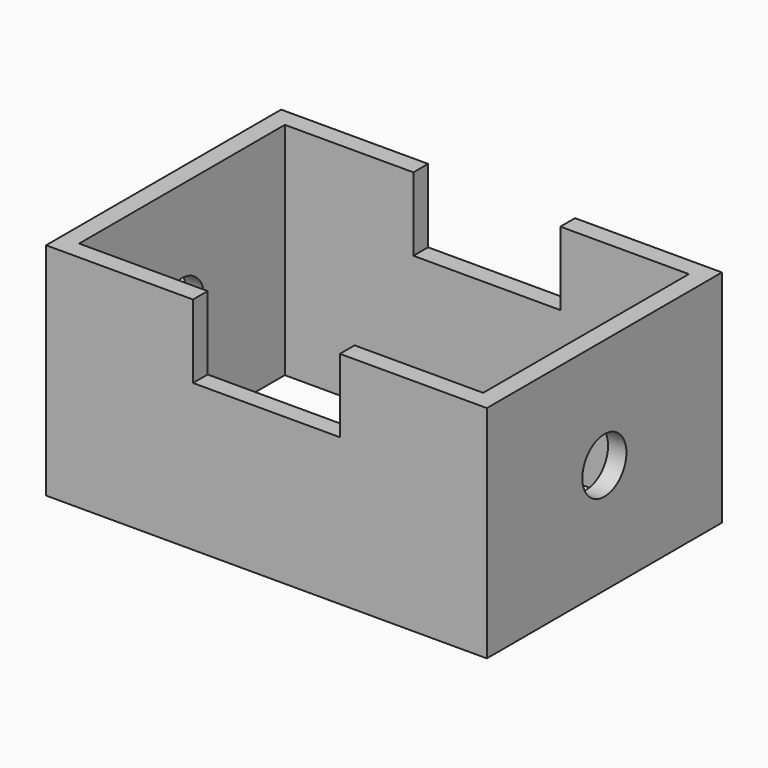
from build123d import *

# Parameters (mm, degrees)
F0_W     = 152.4
F0_H     = 101.6
F0_W_2   = 139.7
F0_H_2   = 88.9
F1_DEPTH = 76.2
F2_W     = 50.8
F2_H     = 25.4
F3_DEPTH = 101.601
F4_R     = 9.525
F5_DEPTH = 152.401


with BuildPart() as f1:
    # F0 (on Top) → F1 (new body)
    with BuildSketch(Plane.XY):
        Rectangle(F0_W, F0_H)
        Rectangle(F0_W_2, F0_H_2, mode=Mode.SUBTRACT)
    extrude(amount=F1_DEPTH)

    # F2 (on face) → F3 (cut, through all)
    with BuildSketch(Plane.XZ.offset(50.8)):
        with Locations((0, 63.5)):
            Rectangle(F2_W, F2_H)
        with Locations((0, 63.5)):
            Rectangle(F2_W, F2_H)
    extrude(amount=-F3_DEPTH, mode=Mode.SUBTRACT)

    # F4 (on face) → F5 (cut, through all)
    with BuildSketch(Plane.YZ.offset(76.2)):
        with Locations((0, 38.1)):
            Circle(F4_R)
    extrude(amount=-F5_DEPTH, mode=Mode.SUBTRACT)


solid = f1.part
